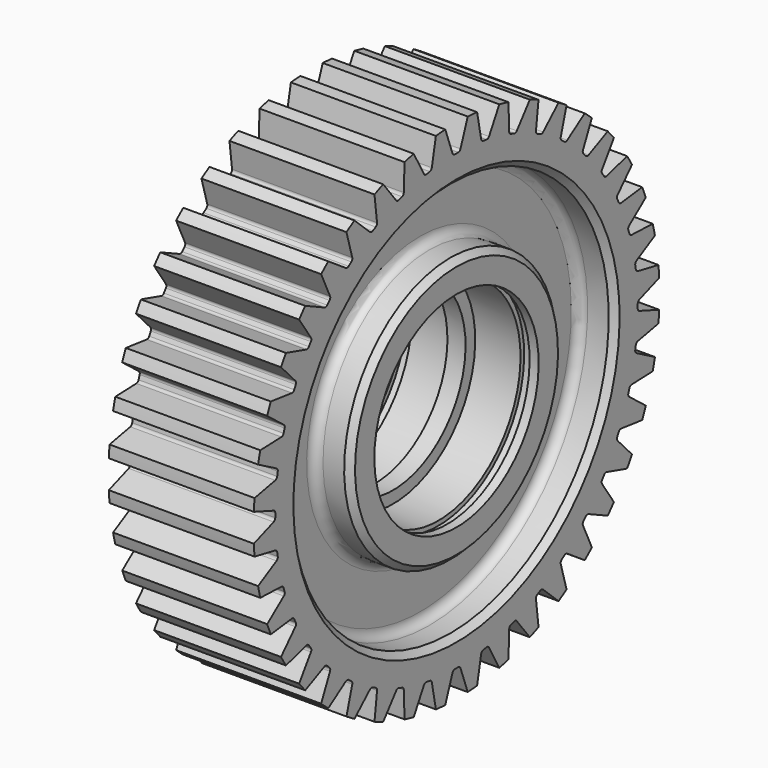
from build123d import *

# Parameters (mm, degrees)
F3_DEPTH      = 24.001
F3_DEPTH_BACK = 24.001
F4_COUNT      = 40
F5_SIZE       = 2


with BuildPart() as f1:
    # F0 (on Front) → F1 (revolve)
    with BuildSketch(Plane.XZ):
        with BuildLine():
            Line((24, 84), (0, 84))
            Line((0, 84), (-24, 84))
            Line((-24, 84), (-24, 65.5))
            Line((-24, 65.5), (-15, 65.5))
            ThreePointArc((-15, 65.5), (-12.8786796564, 64.6213203436), (-12, 62.5))
            Line((-12, 62.5), (-12, 47))
            ThreePointArc((-12, 47), (-12.8786796564, 44.8786796564), (-15, 44))
            Line((-15, 44), (-24, 44))
            Line((-24, 44), (-24, 34))
            Line((-24, 34), (-21, 34))
            Line((-21, 34), (-21, 35.5))
            Line((-21, 35.5), (-18, 35.5))
            Line((-18, 35.5), (-18, 34))
            Line((-18, 34), (-3, 34))
            Line((-3, 34), (-3, 30))
            Line((-3, 30), (0, 30))
            Line((0, 30), (3, 30))
            Line((3, 30), (3, 34))
            Line((3, 34), (18, 34))
            Line((18, 34), (18, 35.5))
            Line((18, 35.5), (21, 35.5))
            Line((21, 35.5), (21, 34))
            Line((21, 34), (24, 34))
            Line((24, 34), (24, 44))
            Line((24, 44), (15, 44))
            ThreePointArc((15, 44), (12.8786796564, 44.8786796564), (12, 47))
            Line((12, 47), (12, 62.5))
            ThreePointArc((12, 62.5), (12.8786796564, 64.6213203436), (15, 65.5))
            Line((15, 65.5), (24, 65.5))
            Line((24, 65.5), (24, 84))
        make_face()
    revolve(axis=Axis((-12, 0, 0), (-1, 0, 0)))

    # F2 (on Right) → F3 (cut, two sides)
    with BuildSketch(Plane.YZ) as f3_sk:
        with BuildLine():
            Line((1.6521387101, 75.654640445), (5, 84.8528137424))
            ThreePointArc((5, 84.8528137424), (0, 85), (-5, 84.8528137424))
            Line((-5, 84.8528137424), (-1.6521387101, 75.654640445))
            ThreePointArc((-1.6521387101, 75.654640445), (-1.2821766981, 75.1748290767), (-0.7030717987, 74.9967045279))
            ThreePointArc((-0.7030717987, 74.9967045279), (0, 75), (0.7030717987, 74.9967045279))
            ThreePointArc((0.7030717987, 74.9967045279), (1.2821766981, 75.1748290767), (1.6521387101, 75.654640445))
        make_face()
    f3 = extrude(amount=-F3_DEPTH, mode=Mode.SUBTRACT) + extrude(f3_sk.sketch, amount=F3_DEPTH_BACK, mode=Mode.SUBTRACT)

    # F4: F3 ×40 about axis
    f4_axis = Axis((24, 0, 0), (-1, 0, 0))
    for i in range(1, F4_COUNT):
        add(f3.rotate(f4_axis, i * 360 / F4_COUNT), mode=Mode.SUBTRACT)

    # F5
    f5_edges = [f1.edges().sort_by_distance(p)[0] for p in [
        (-24, 0, -65.5),
        (-24, 0, -44),
        (24, 0, -65.5),
        (24, 0, -44),
    ]]
    chamfer(f5_edges, length=F5_SIZE)


solid = f1.part
